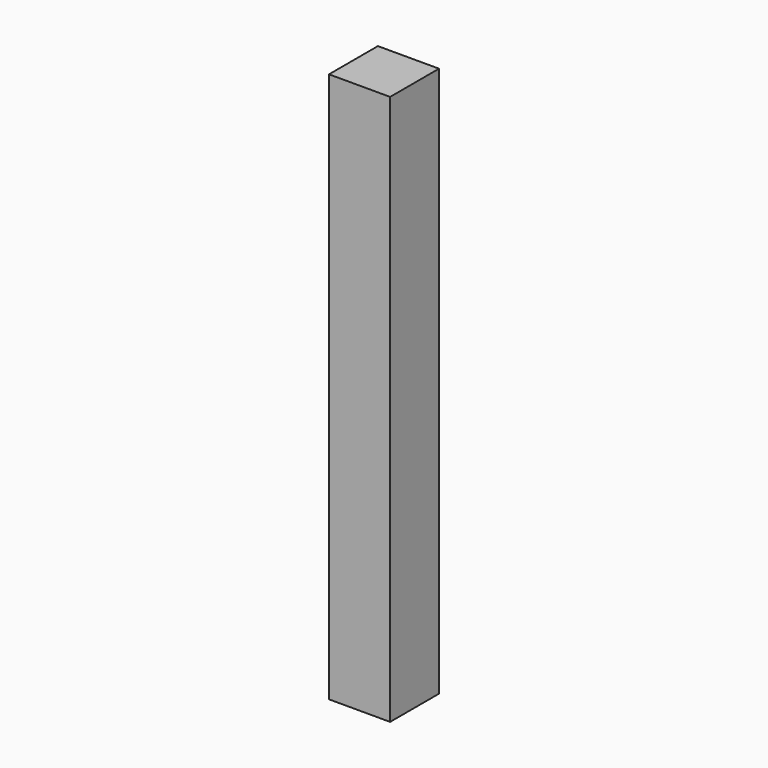
from build123d import *

# Parameters (mm, degrees)
SKETCH_W  = 20
SKETCH_H  = 20
PAD_DEPTH = 180


with BuildPart() as part:
    # Sketch → Pad (new body)
    with BuildSketch(Plane.XY):
        with Locations((10, -10)):
            Rectangle(SKETCH_W, SKETCH_H)
    extrude(amount=PAD_DEPTH)


solid = part.part
